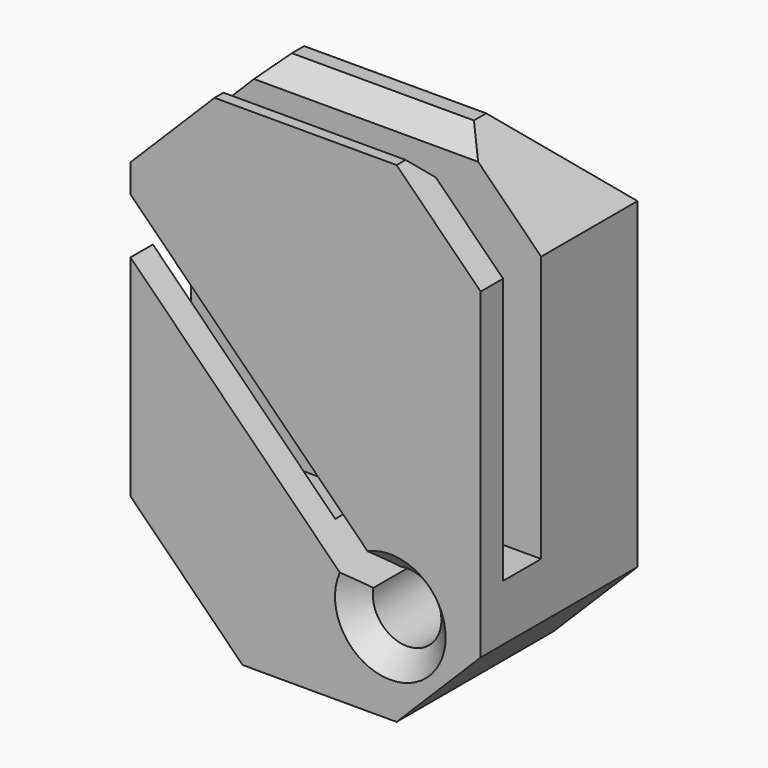
from build123d import *

# Parameters (mm, degrees)
BOX_W           = 25
BOX_H           = 14
BOX_DEPTH       = 35
SKETCH_W        = 25
SKETCH_H        = 3.4
POCKET_DEPTH    = 25
SKETCH001_R     = 2.45
POCKET001_DEPTH = 8
SKETCH002_R     = 1.4
POCKET002_DEPTH = 6.001
SKETCH003_W     = 4
SKETCH003_H     = 4
PAD_DEPTH       = 4
CHAMFER_SIZE    = 1.99
POCKET003_DEPTH = 17
CHAMFER001_SIZE = 8
CHAMFER002_SIZE = 6
CHAMFER003_SIZE = 6
CHAMFER004_SIZE = 1.5
CHAMFER005_SIZE = 1.4
CHAMFER006_SIZE = 1.2
CHAMFER007_SIZE = 1.5


with BuildPart() as pocket002:
    # Box → Box (new body)
    with BuildSketch(Plane.XY):
        with Locations((12.5, 7)):
            Rectangle(BOX_W, BOX_H)
    extrude(amount=BOX_DEPTH)

    # Sketch → Pocket (cut)
    with BuildSketch(Plane.XY.offset(35)):
        with Locations((12.5, 3.7)):
            Rectangle(SKETCH_W, SKETCH_H)
    extrude(amount=-POCKET_DEPTH, mode=Mode.SUBTRACT)

    # Sketch001 → Pocket001 (cut)
    with BuildSketch(Plane.XZ):
        with Locations((18.55, 6.45)):
            Circle(SKETCH001_R)
    extrude(amount=-POCKET001_DEPTH, mode=Mode.SUBTRACT)

    # Sketch002 → Pocket002 (cut, through all)
    with BuildSketch(Plane.XZ.offset(-8)):
        with Locations((18.55, 6.45)):
            Circle(SKETCH002_R)
    extrude(amount=-POCKET002_DEPTH, mode=Mode.SUBTRACT)


with BuildPart() as chamfer007:
    # Sketch003 → Pad (new body)
    with BuildSketch(Plane.XZ):
        with Locations((12.5, 25)):
            Rectangle(SKETCH003_W, SKETCH003_H)
    extrude(amount=-PAD_DEPTH)

    # Chamfer
    chamfer_edges = [chamfer007.edges().sort_by_distance(p)[0] for p in [
        (12.5, 4, 23),
        (10.5, 4, 25),
        (12.5, 4, 27),
        (14.5, 4, 25),
    ]]
    chamfer(chamfer_edges, length=CHAMFER_SIZE)

    # Fusion: union Pocket002
    add(pocket002.part)

    # Sketch005 → Pocket003 (cut)
    with BuildSketch(Plane.XZ):
        with BuildLine():
            ThreePointArc((19.539949, 7.439949), (17.560051, 7.439949), (17.560051, 5.460051))
            Line((17.560051, 5.460051), (0, 23.020101))
            Line((0, 26.979899), (0, 23.020101))
            Line((19.539949, 7.439949), (0, 26.979899))
        make_face()
    extrude(amount=-POCKET003_DEPTH, mode=Mode.SUBTRACT)

    # Chamfer001
    chamfer001_edges = [chamfer007.edges().sort_by_distance(p)[0] for p in [
        (0, 7, 0),
    ]]
    chamfer(chamfer001_edges, length=CHAMFER001_SIZE)

    # Chamfer002
    chamfer002_edges = [chamfer007.edges().sort_by_distance(p)[0] for p in [
        (25, 7, 0),
    ]]
    chamfer(chamfer002_edges, length=CHAMFER002_SIZE)

    # Chamfer003
    chamfer003_edges = [chamfer007.edges().sort_by_distance(p)[0] for p in [
        (0, 9.7, 35),
        (25, 9.7, 35),
        (0, 1, 35),
        (25, 1, 35),
        (12.5, 14, 35),
    ]]
    chamfer(chamfer003_edges, length=CHAMFER003_SIZE)

    # Chamfer004
    chamfer004_edges = [chamfer007.edges().sort_by_distance(p)[0] for p in [
        (20.12237, 0, 8.32887),
    ]]
    chamfer(chamfer004_edges, length=CHAMFER004_SIZE)

    # Chamfer005
    chamfer005_edges = [chamfer007.edges().sort_by_distance(p)[0] for p in [
        (19.085757, 14, 5.156569),
    ]]
    chamfer(chamfer005_edges, length=CHAMFER005_SIZE)

    # Chamfer006
    chamfer006_edges = [chamfer007.edges().sort_by_distance(p)[0] for p in [
        (12.5, 2, 35),
    ]]
    chamfer(chamfer006_edges, length=CHAMFER006_SIZE)

    # Chamfer007
    chamfer007_edges = [chamfer007.edges().sort_by_distance(p)[0] for p in [
        (12.5, 5.4, 35),
    ]]
    chamfer(chamfer007_edges, length=CHAMFER007_SIZE)


solid = chamfer007.part
